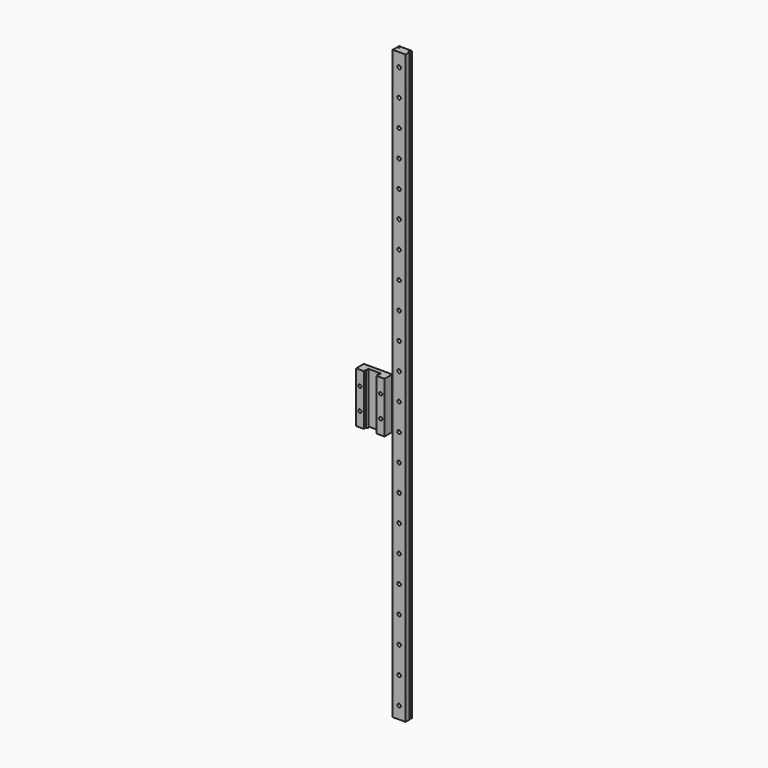
from build123d import *

# Parameters (mm, degrees)
F0_W      = 12
F0_H      = 549
F1_DEPTH  = 3.7
F3_DEPTH  = 549.001
F4_R      = 3
F5_DEPTH  = 4.5
F6_R      = 1.65
F7_DEPTH  = 25
F9_DEPTH  = 23.75
F10_R     = 1.5
F11_DEPTH = 25


with BuildPart() as f1:
    # F0 (on Front) → F1 (new body, symmetric)
    with BuildSketch(Plane.XZ):
        Rectangle(F0_W, F0_H)
    extrude(amount=F1_DEPTH, both=True)

    # F2 (on face) → F3 (cut, through all)
    with BuildSketch(Plane.XY.offset(274.5)):
        Polygon((-4, 1.7), (-6, 2.7), (-6, 1.0333333333), align=None)
        Polygon((6, 1.0333333333), (6, 2.7), (4, 1.7), align=None)
    extrude(amount=-F3_DEPTH, mode=Mode.SUBTRACT)

    # F4 (on face) → F5 (cut)
    with BuildSketch(Plane(origin=(0, 3.7, 0), x_dir=(-1, 0, 0), z_dir=(0, 1, 0))):
        with Locations((0, 262)):
            Circle(F4_R)
        with Locations((0, 237)):
            Circle(F4_R)
        with Locations((0, 212)):
            Circle(F4_R)
        with Locations((0, 187)):
            Circle(F4_R)
        with Locations((0, 162)):
            Circle(F4_R)
        with Locations((0, 137)):
            Circle(F4_R)
        with Locations((0, 112)):
            Circle(F4_R)
        with Locations((0, 87)):
            Circle(F4_R)
        with Locations((0, 62)):
            Circle(F4_R)
        with Locations((0, 37)):
            Circle(F4_R)
        with Locations((0, 12)):
            Circle(F4_R)
        with Locations((0, -13)):
            Circle(F4_R)
        with Locations((0, -38)):
            Circle(F4_R)
        with Locations((0, -63)):
            Circle(F4_R)
        with Locations((0, -88)):
            Circle(F4_R)
        with Locations((0, -113)):
            Circle(F4_R)
        with Locations((0, -138)):
            Circle(F4_R)
        with Locations((0, -163)):
            Circle(F4_R)
        with Locations((0, -188)):
            Circle(F4_R)
        with Locations((0, -213)):
            Circle(F4_R)
        with Locations((0, -238)):
            Circle(F4_R)
        with Locations((0, -263)):
            Circle(F4_R)
    extrude(amount=-F5_DEPTH, mode=Mode.SUBTRACT)

    # F6 (on face) → F7 (cut)
    with BuildSketch(Plane.XZ.offset(3.7)):
        with Locations((0, 262)):
            Circle(F6_R)
        with Locations((0, 237)):
            Circle(F6_R)
        with Locations((0, 212)):
            Circle(F6_R)
        with Locations((0, 187)):
            Circle(F6_R)
        with Locations((0, 162)):
            Circle(F6_R)
        with Locations((0, 137)):
            Circle(F6_R)
        with Locations((0, 112)):
            Circle(F6_R)
        with Locations((0, 87)):
            Circle(F6_R)
        with Locations((0, 62)):
            Circle(F6_R)
        with Locations((0, 37)):
            Circle(F6_R)
        with Locations((0, 12)):
            Circle(F6_R)
        with Locations((0, -13)):
            Circle(F6_R)
        with Locations((0, -38)):
            Circle(F6_R)
        with Locations((0, -63)):
            Circle(F6_R)
        with Locations((0, -88)):
            Circle(F6_R)
        with Locations((0, -113)):
            Circle(F6_R)
        with Locations((0, -138)):
            Circle(F6_R)
        with Locations((0, -163)):
            Circle(F6_R)
        with Locations((0, -188)):
            Circle(F6_R)
        with Locations((0, -213)):
            Circle(F6_R)
        with Locations((0, -238)):
            Circle(F6_R)
        with Locations((0, -263)):
            Circle(F6_R)
    extrude(amount=-F7_DEPTH, mode=Mode.SUBTRACT)


with BuildPart() as f9:
    # F8 (on Top) → F9 (new body, symmetric)
    with BuildSketch(Plane.XY):
        Polygon((13.25, -28.3055538833), (-13.25, -28.3055538833), (-13.25, -37.3055538833), (-6, -37.3055538833), (-6, -34.8510597847), (-4.1582975537, -34.3055538833), (-6, -33.3055538833), (-6, -32.3055538833), (6, -32.3055538833), (6, -33.3055538833), (4.1582975537, -34.3055538833), (6, -34.8510597847), (6, -37.3055538833), (13.25, -37.3055538833), align=None)
    extrude(amount=F9_DEPTH, both=True)

    # F10 (on face) → F11 (cut)
    with BuildSketch(Plane(origin=(0, -28.3055538833, 0), x_dir=(-1, 0, 0), z_dir=(0, 1, 0))):
        with Locations((9.75, -10.25)):
            Circle(F10_R)
        with Locations((9.75, 10.25)):
            Circle(F10_R)
        with Locations((-9.75, 10.25)):
            Circle(F10_R)
        with Locations((-9.75, -10.25)):
            Circle(F10_R)
    extrude(amount=-F11_DEPTH, mode=Mode.SUBTRACT)


solid = Compound([f1.part, f9.part])
